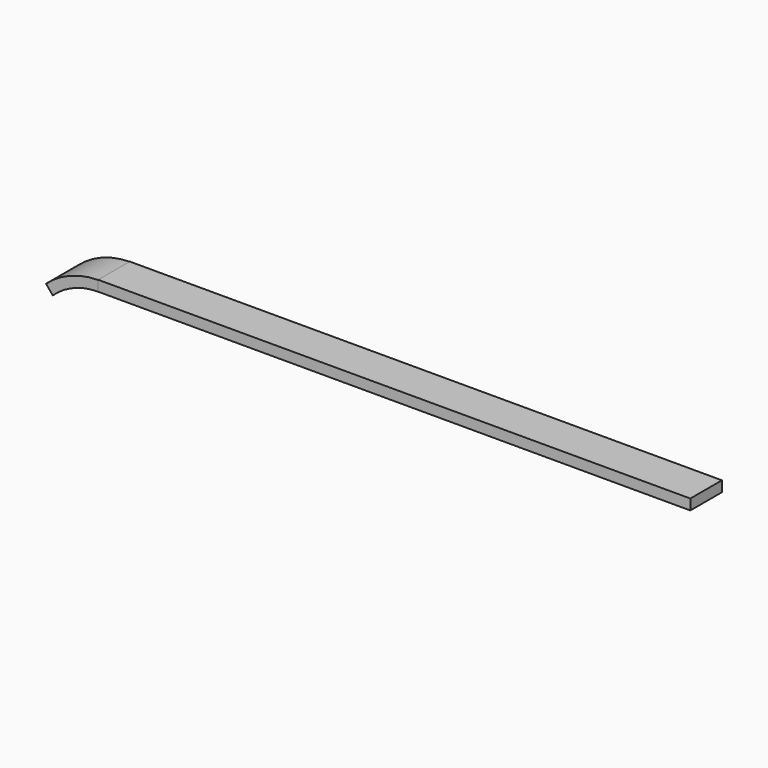
from build123d import *

# Parameters (mm, degrees)
F0_W     = 450
F0_H     = 30
F1_DEPTH = 8
F3_DEPTH = 30


with BuildPart() as f1:
    # F0 (on Top) → F1 (new body)
    with BuildSketch(Plane.XY):
        with Locations((-225, -15)):
            Rectangle(F0_W, F0_H)
    extrude(amount=F1_DEPTH)


with BuildPart() as f3:
    # F2 (on face) → F3 (new body)
    with BuildSketch(Plane.XZ.offset(30)):
        with BuildLine():
            Line((-450, 0), (-450, 7.857876))
            ThreePointArc((-450, 7.857876), (-471.199369, 3.797349), (-489.590028, -7.502422))
            Line((-489.590028, -7.502422), (-484.533262, -13.715671))
            ThreePointArc((-484.533262, -13.715671), (-468.578656, -3.554424), (-450, 0))
        make_face()
    extrude(amount=-F3_DEPTH)


solid = Compound([f1.part, f3.part])
